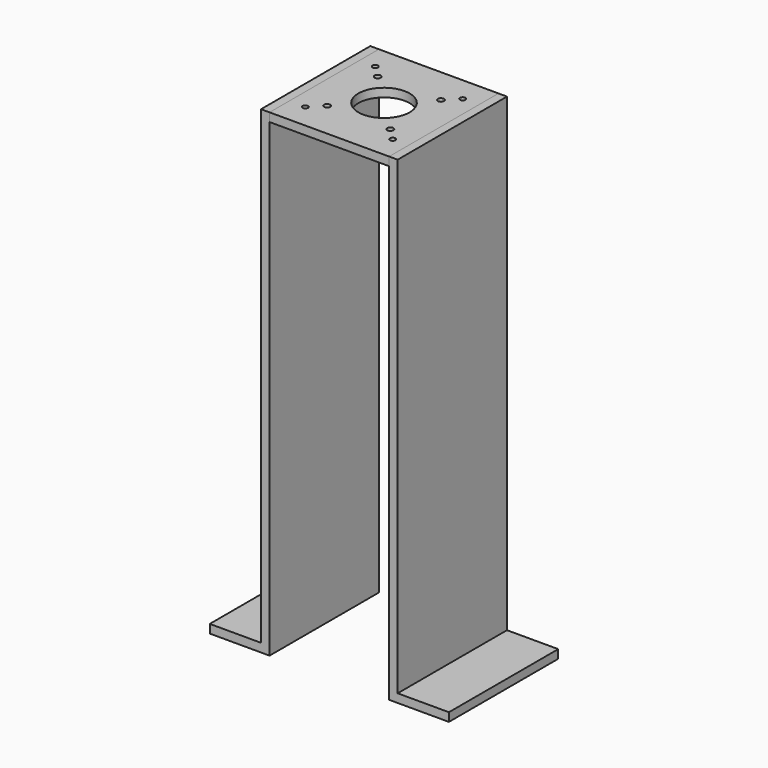
from build123d import *

# Parameters (mm, degrees)
F1_W     = 88.9
F1_H     = 101.6
F1_R     = 2.032
F1_R_2   = 2.286
F1_R_3   = 19.05
F2_DEPTH = 6.35
F1_W_2   = 6.35
F3_DEPTH = 355.6
F4_W     = 101.6
F4_H     = 6.35
F6_DEPTH = 38.1
F5_W     = 101.6
F5_H     = 6.35
F7_DEPTH = 38.1


with BuildPart() as f2:
    # F1 (on offset) → F2 (new body)
    with BuildSketch(Plane.XY.offset(152.4)):
        Rectangle(F1_W, F1_H)
        with Locations((-32.512, -32.512)):
            Circle(F1_R, mode=Mode.SUBTRACT)
        with Locations((-23.495, -23.495)):
            Circle(F1_R_2, mode=Mode.SUBTRACT)
        Circle(F1_R_3, mode=Mode.SUBTRACT)
        with Locations((32.512, -32.512)):
            Circle(F1_R, mode=Mode.SUBTRACT)
        with Locations((23.495, -23.495)):
            Circle(F1_R_2, mode=Mode.SUBTRACT)
        with Locations((-23.495, 23.495)):
            Circle(F1_R_2, mode=Mode.SUBTRACT)
        with Locations((-32.512, 32.512)):
            Circle(F1_R, mode=Mode.SUBTRACT)
        with Locations((23.495, 23.495)):
            Circle(F1_R_2, mode=Mode.SUBTRACT)
        with Locations((32.512, 32.512)):
            Circle(F1_R, mode=Mode.SUBTRACT)
    extrude(amount=-F2_DEPTH)


with BuildPart() as f3:
    # F1 (on offset) → F3 (new body)
    with BuildSketch(Plane.XY.offset(152.4)):
        with Locations((-47.625, 0)):
            Rectangle(F1_W_2, F1_H)
        with Locations((47.625, 0)):
            Rectangle(F1_W_2, F1_H)
    extrude(amount=-F3_DEPTH)

    # F4 (on face) → F6 (join)
    with BuildSketch(Plane(origin=(-50.8, 0, 0), x_dir=(0, -1, 0), z_dir=(-1, 0, 0))):
        with Locations((0, -200.025)):
            Rectangle(F4_W, F4_H)
    extrude(amount=F6_DEPTH)

    # F5 (on face) → F7 (join)
    with BuildSketch(Plane.YZ.offset(50.8)):
        with Locations((0, -200.025)):
            Rectangle(F5_W, F5_H)
    extrude(amount=F7_DEPTH)


solid = Compound([f2.part, f3.part])
